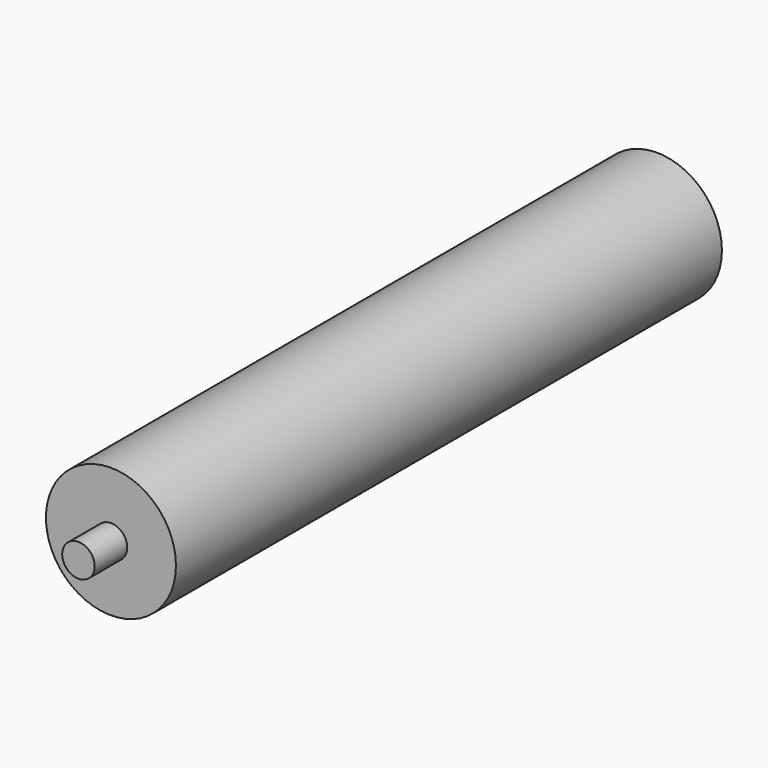
from build123d import *

# Parameters (mm, degrees)
F0_R     = 10
F1_DEPTH = 232.5
F3_R     = 40
F3_R_2   = 10
F4_DEPTH = 210


with BuildPart() as f1:
    # F0 (on Front) → F1 (new body, symmetric)
    with BuildSketch(Plane.XZ):
        Circle(F0_R)
    extrude(amount=F1_DEPTH, both=True)


with BuildPart() as f4:
    # F3 (on offset) → F4 (new body, symmetric)
    with BuildSketch(Plane.XZ.offset(-2.5)):
        Circle(F3_R)
        Circle(F3_R_2, mode=Mode.SUBTRACT)
    extrude(amount=F4_DEPTH, both=True)


solid = Compound([f1.part, f4.part])
